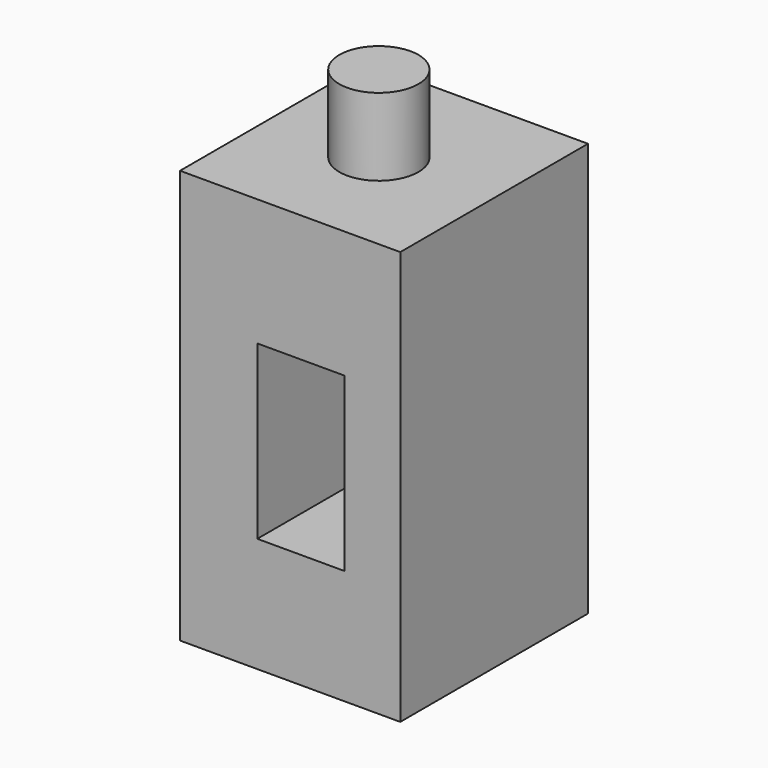
from build123d import *

# Parameters (mm, degrees)
F0_W     = 77.007651329
F0_H     = 135.7397735119
F1_DEPTH = 72.2800772637
F2_R     = 12.98884786
F3_DEPTH = 25.4
F4_W     = 22.6057656109
F4_H     = 36.8559285998
F5_DEPTH = 49.8851463199
F6_W     = 28.5666175187
F6_H     = 56.4576983452
F7_DEPTH = 77.007651329


with BuildPart() as f1:
    # F0 (on Right) → F1 (new body)
    with BuildSketch(Plane.YZ):
        with Locations((-24.8167514801, 61.0263496637)):
            Rectangle(F0_W, F0_H)
    extrude(amount=F1_DEPTH)

    # F2 (on face) → F3 (join)
    with BuildSketch(Plane.XY.offset(128.8962364197)):
        with Locations((35.1639688015, -25.7027596235)):
            Circle(F2_R)
    extrude(amount=F3_DEPTH)

    # F4 (on face) → F5 (cut)
    with BuildSketch(Plane.YZ.offset(72.2800772637)):
        with Locations((-26.0762441903, 56.855943054)):
            Rectangle(F4_W, F4_H)
    extrude(amount=F5_DEPTH, mode=Mode.SUBTRACT)

    # F6 (on face) → F7 (cut, through all)
    with BuildSketch(Plane.XZ.offset(63.3205771446)):
        with Locations((39.6464411169, 59.0323209763)):
            Rectangle(F6_W, F6_H)
    extrude(amount=-F7_DEPTH, mode=Mode.SUBTRACT)


solid = f1.part
